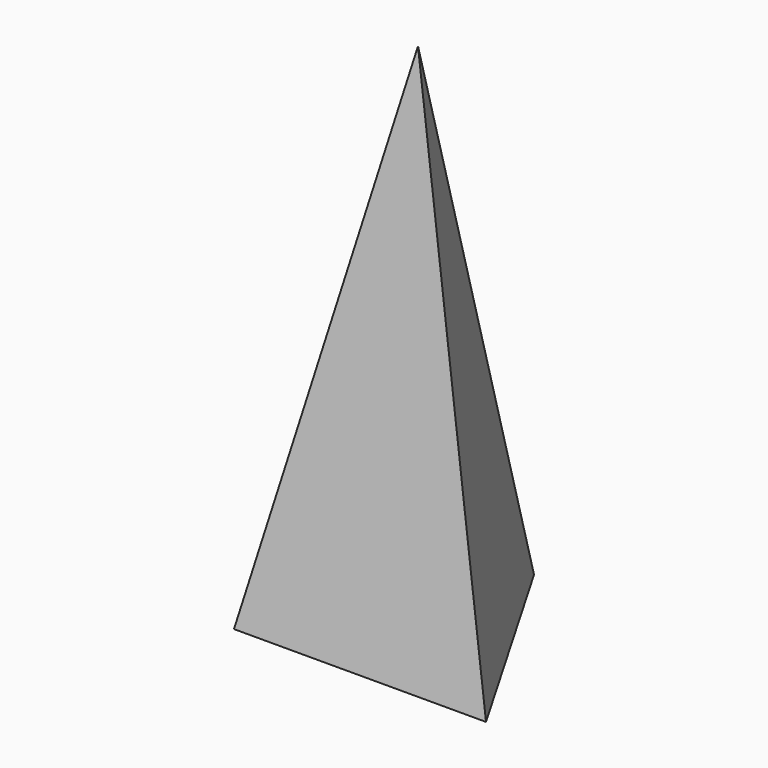
from build123d import *


with BuildPart() as f3:
    # F0 (on Top) → F3 section 0
    with BuildSketch(Plane.XY, mode=Mode.PRIVATE) as f3_s0:
        Polygon((-0.108842, 70.375021), (-60.892135, -35.28177), (61.000977, -35.093251), align=None)
    loft([f3_s0.sketch, Vertex(0, 0, 254)])


solid = f3.part
